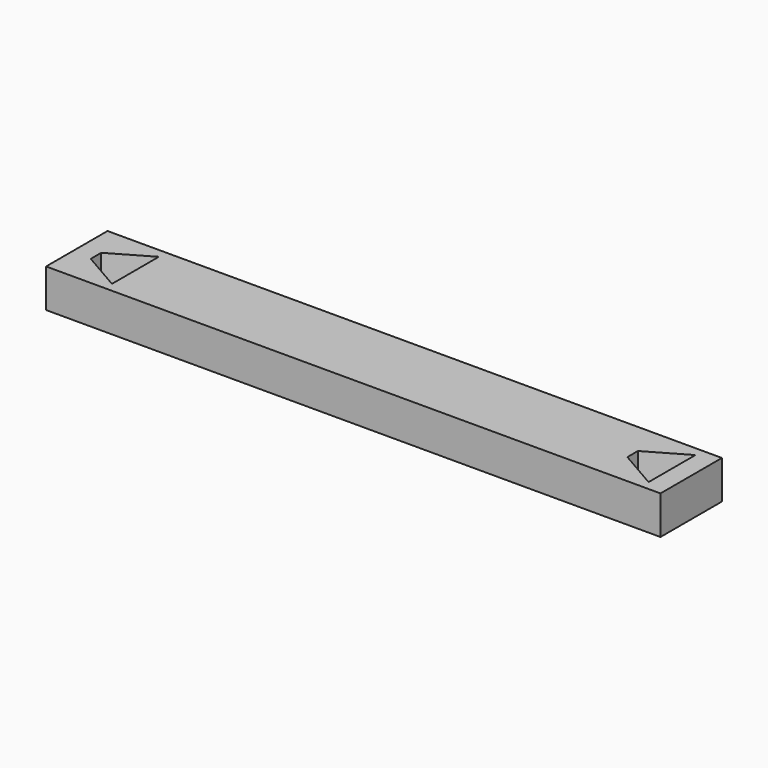
from build123d import *

# Parameters (mm, degrees)
SKETCH_W     = 160
SKETCH_H     = 20
PAD_DEPTH    = 10
POCKET_DEPTH = 10


with BuildPart() as part:
    # Sketch → Pad (new body)
    with BuildSketch(Plane.XY):
        with Locations((7.304336, 4.746988)):
            Rectangle(SKETCH_W, SKETCH_H)
    extrude(amount=PAD_DEPTH)

    # Sketch001 (on Face6 of Pad) → Pocket (cut)
    with BuildSketch(Plane.XY.offset(10)):
        Polygon((-67.695664, 3.039828), (-67.695664, 6.454148), (-57.445664, 12.371988), (-57.445664, -2.878012), align=None)
        Polygon((72.054336, 3.039828), (72.054336, 6.454148), (82.304336, 12.371988), (82.304336, -2.878012), align=None)
    extrude(amount=-POCKET_DEPTH, mode=Mode.SUBTRACT)


solid = part.part
